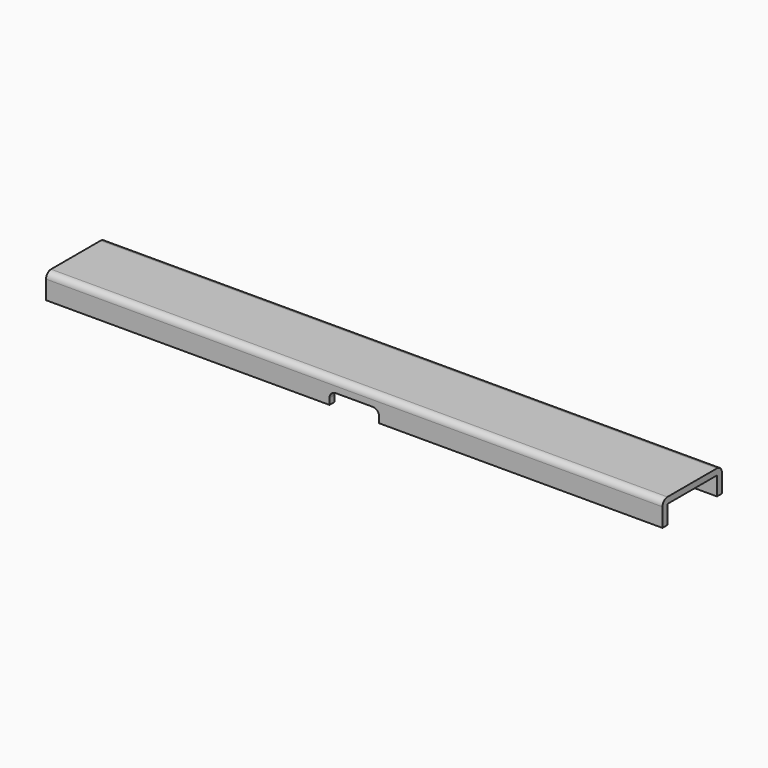
from build123d import *

# Parameters (mm, degrees)
F1_DEPTH = 1263.65
F3_DEPTH = 12.7


with BuildPart() as f1:
    # F0 (on Right) → F1 (new body)
    with BuildSketch(Plane.YZ):
        with BuildLine():
            Line((-12.7, 0), (0, 0))
            Line((0, 0), (0, 38.1))
            Line((0, 38.1), (127, 38.1))
            Line((127, 38.1), (127, 0))
            Line((127, 0), (139.7, 0))
            Line((139.7, 0), (139.7, 38.1))
            ThreePointArc((139.7, 38.1), (135.980256, 47.080256), (127, 50.8))
            Line((127, 50.8), (0, 50.8))
            ThreePointArc((0, 50.8), (-8.980256, 47.080256), (-12.7, 38.1))
            Line((-12.7, 38.1), (-12.7, 0))
        make_face()
    extrude(amount=-F1_DEPTH)

    # F2 (on face) → F3 (cut)
    with BuildSketch(Plane.XZ.offset(12.7)):
        with BuildLine():
            Line((-682.625, 0), (-581.025, 0))
            Line((-581.025, 0), (-581.025, 12.7))
            ThreePointArc((-581.025, 12.7), (-584.744744, 21.680256), (-593.725, 25.4))
            Line((-593.725, 25.4), (-669.925, 25.4))
            ThreePointArc((-669.925, 25.4), (-678.905256, 21.680256), (-682.625, 12.7))
            Line((-682.625, 12.7), (-682.625, 0))
        make_face()
    extrude(amount=-F3_DEPTH, mode=Mode.SUBTRACT)


solid = f1.part
